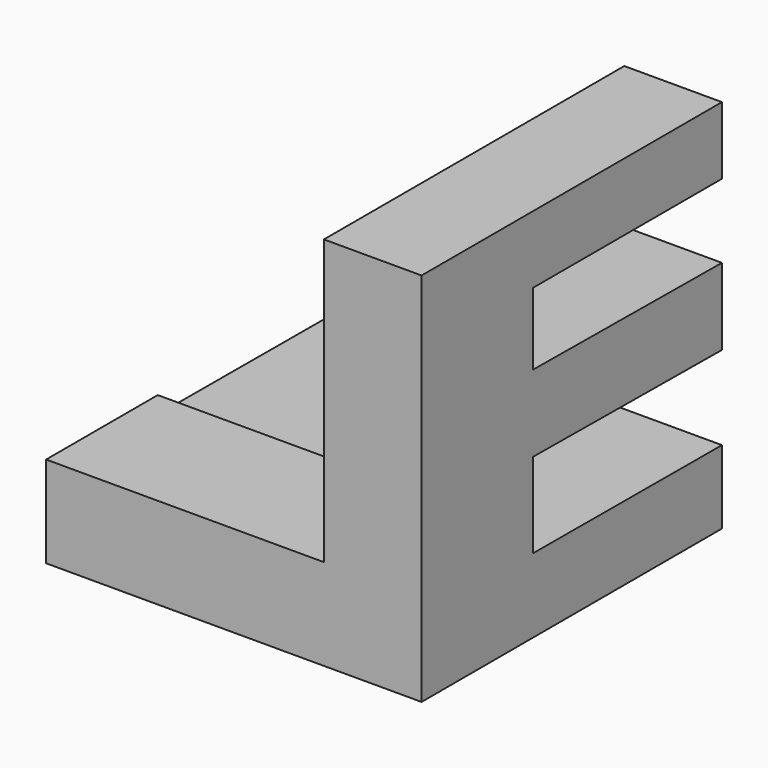
from build123d import *

# Parameters (mm, degrees)
F0_W     = 38.1
F0_H     = 38.1
F1_DEPTH = 38.1
F4_DEPTH = 38.1
F5_W     = 28.191894
F5_H     = 28.831113
F6_DEPTH = 38.1


with BuildPart() as f1:
    # F0 (on Front) → F1 (new body)
    with BuildSketch(Plane.XZ):
        with Locations((19.05, 19.05)):
            Rectangle(F0_W, F0_H)
    extrude(amount=F1_DEPTH)

    # F3 (on face) → F4 (cut)
    with BuildSketch(Plane.YZ.offset(38.1)):
        Polygon((0, 23.742571), (0, 31.250443), (-23.93651, 31.250443), (-23.93651, 23.93651), align=None)
        Polygon((0, 7.535568), (0, 15.957672), (-23.936734, 16.151613), (-23.936734, 7.535568), (0, 7.456388), align=None)
    extrude(amount=-F4_DEPTH, mode=Mode.SUBTRACT)

    # F5 (on offset) → F6 (cut)
    with BuildSketch(Plane.XZ.offset(38.1)):
        with Locations((14.095947, 23.684444)):
            Rectangle(F5_W, F5_H)
    extrude(amount=-F6_DEPTH, mode=Mode.SUBTRACT)


solid = f1.part
